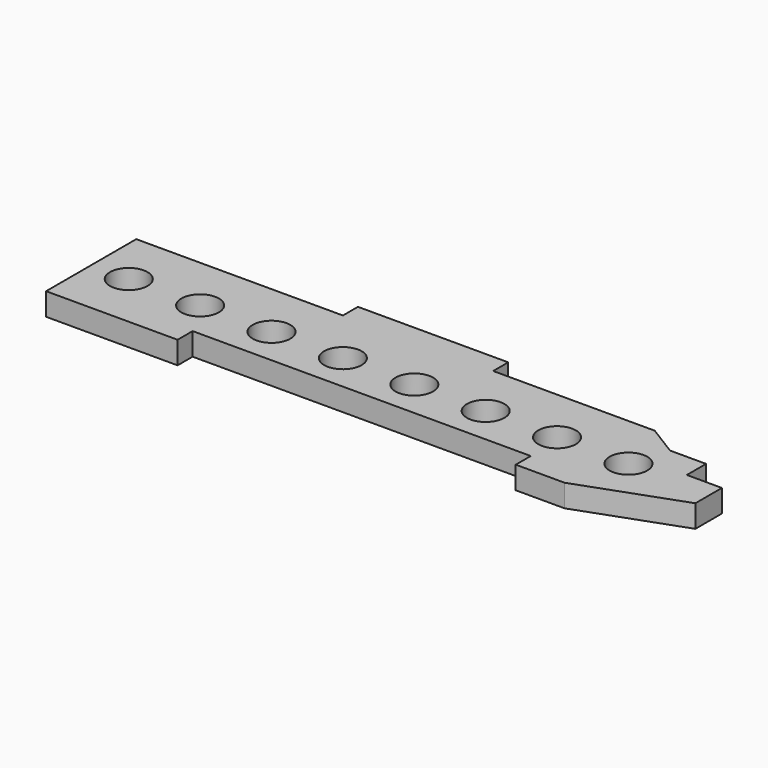
from build123d import *

# Parameters (mm, degrees)
F0_R     = 10
F1_DEPTH = 12


with BuildPart() as f1:
    # F0 (on Top) → F1 (new body)
    with BuildSketch(Plane.XY):
        Polygon((0, 60), (0, 0), (70, 0), (70, 10), (250, 10), (250, 0), (276.01, 0), (330, 19.53), (330, 37.19), (311.32, 37.19), (311.32, 50), (292.12, 50), (276.01, 60), (190, 60), (190, 70), (110, 70), (110, 60), align=None)
        with Locations((20, 30)):
            Circle(F0_R, mode=Mode.SUBTRACT)
        with Locations((58, 30)):
            Circle(F0_R, mode=Mode.SUBTRACT)
        with Locations((96, 30)):
            Circle(F0_R, mode=Mode.SUBTRACT)
        with Locations((134, 30)):
            Circle(F0_R, mode=Mode.SUBTRACT)
        with Locations((172, 30)):
            Circle(F0_R, mode=Mode.SUBTRACT)
        with Locations((210, 30)):
            Circle(F0_R, mode=Mode.SUBTRACT)
        with Locations((248, 30)):
            Circle(F0_R, mode=Mode.SUBTRACT)
        with Locations((286, 30)):
            Circle(F0_R, mode=Mode.SUBTRACT)
    extrude(amount=F1_DEPTH)


solid = f1.part
